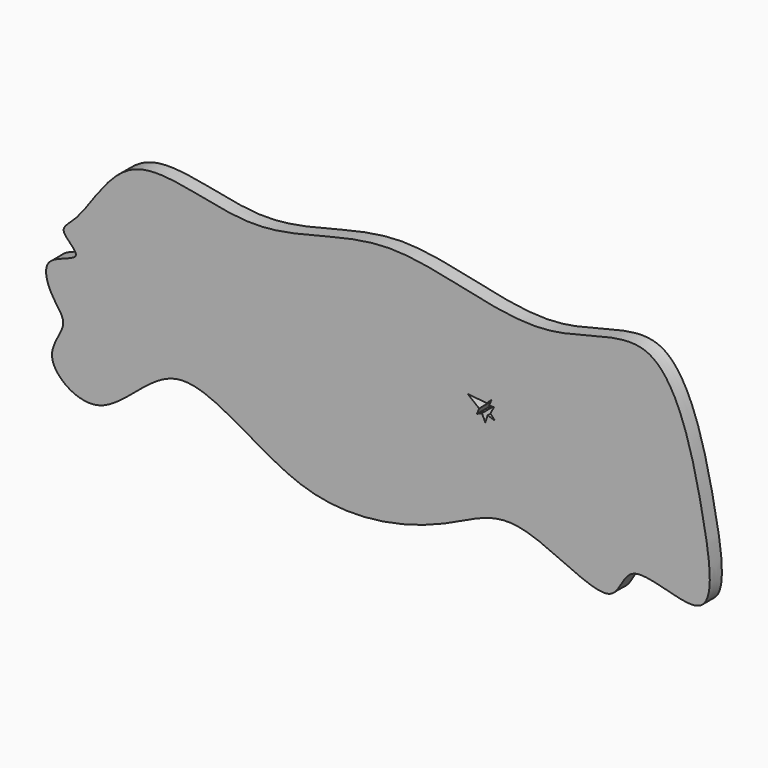
from build123d import *

# Parameters (mm, degrees)
F1_DEPTH = 50.8


with BuildPart() as f1:
    # F0 (on Front) → F1 (new body)
    with BuildSketch(Plane.XZ):
        with BuildLine():
            add(Edge.make_bspline(
                [(144.071161747, 618.6537742615), (194.1068965972, 673.1782195583), (313.8035350512, 923.5073132723), (751.3368563035, 718.6166739716), (1184.0569529389, 948.6796667634), (1692.8396787628, 717.5255493469), (2114.7965842707, 966.9473763332), (2246.4042786364, 443.91728229), (2300.4402862477, 62.8871124213), (1980.4343000614, 238.7241130521), (1957.3251191714, 6.8790297785), (1606.5890433597, 256.5184967835), (1384.9032997131, 93.8732166463), (893.5021516642, -25.6608924592), (478.0318732932, 393.1584860755), (239.0836669793, 3.4323597943), (9.5566326424, 170.3079487242), (125.7516679379, 289.0786371655), (59.348653977, 349.8173810363), (13.954241834, 476.151156619), (187.8607403773, 492.9285525519), (71.1189181616, 566.8243740753), (118.724126682, 591.0328543135), (144.071161747, 618.6537742615)],
                knots=[0, 0, 0, 0, 0.0510361798, 0.1118039781, 0.1774308483, 0.2473354824, 0.3046160643, 0.3696998679, 0.4202261219, 0.4652103547, 0.4981068307, 0.5523903738, 0.6017796909, 0.6679779868, 0.7337723575, 0.7880709429, 0.828110048, 0.8608932907, 0.8877646449, 0.9184358033, 0.9490693114, 0.9741461609, 1, 1, 1, 1], degree=3))
        make_face()
        with BuildLine():
            Line((1534.7616672516, 532.6675772667), (1526.5541166324, 513.1167924645))
            Line((1526.5541166324, 513.1167924645), (1542.7253246307, 513.1167924645))
            Line((1542.7253246307, 513.1167924645), (1530.6646060603, 490.7660532082))
            Line((1530.6646060603, 490.7660532082), (1546.1911308768, 474.3346112467))
            Line((1546.1911308768, 474.3346112467), (1521.471521414, 482.5503322274))
            Line((1521.471521414, 482.5503322274), (1513.4698078155, 458.474632036))
            Line((1513.4698078155, 458.474632036), (1502.4468776862, 482.5503322274))
            Line((1502.4468776862, 482.5503322274), (1485.7458146263, 474.9038401325))
            Line((1485.7458146263, 474.9038401325), (1492.9411707726, 493.4638622893))
            Line((1492.9411707726, 493.4638622893), (1454.3404249572, 524.0255368857))
            Line((1454.3404249572, 524.0255368857), (1502.4468776862, 518.9272484558))
            Line((1502.4468776862, 518.9272484558), (1515.0460400795, 517.5240742607))
            ThreePointArc((1515.0460400795, 517.5240742607), (1516.7047302676, 517.4159521445), (1518.3465660131, 517.1564932521))
            Line((1518.3465660131, 517.1564932521), (1534.7616672516, 532.6675772667))
        make_face(mode=Mode.SUBTRACT)
    extrude(amount=F1_DEPTH)


solid = f1.part
